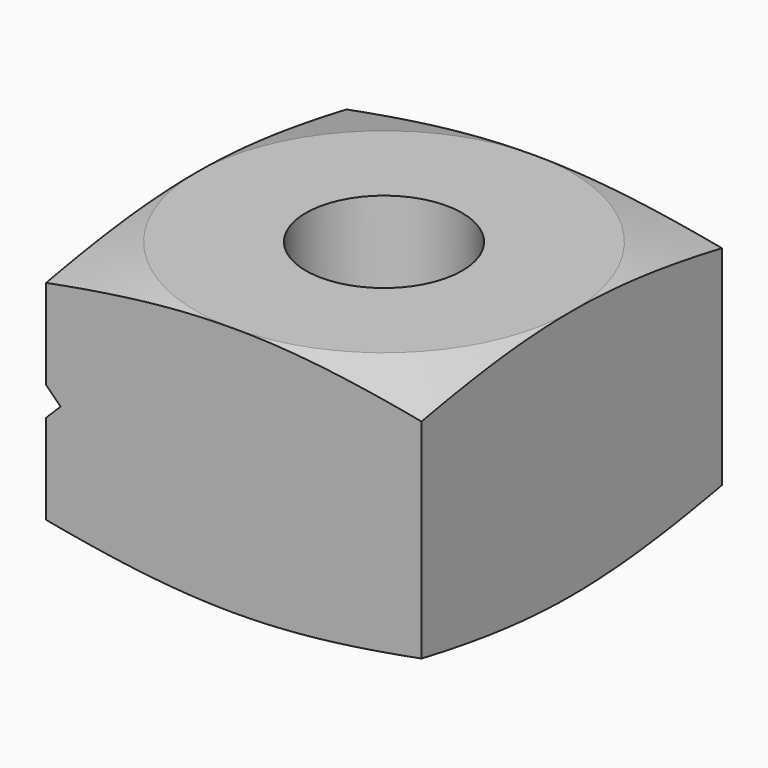
from build123d import *

# Parameters (mm, degrees)
F0_W      = 19.05
F0_H      = 19.05
F1_DEPTH  = 12.7
F2_R      = 3.96875
F3_DEPTH  = 12.701
F10_DEPTH = 12.7


with BuildPart() as f1:
    # F0 (on Top) → F1 (new body)
    with BuildSketch(Plane.XY):
        Rectangle(F0_W, F0_H)
    extrude(amount=F1_DEPTH)

    # F2 (on face) → F3 (cut, through all)
    with BuildSketch(Plane.XY.offset(12.7)):
        Circle(F2_R)
    extrude(amount=-F3_DEPTH, mode=Mode.SUBTRACT)

    # F4 (on Right) → F5 (revolve, cut)
    with BuildSketch(Plane.YZ):
        Polygon((24.765, 12.7), (9.525, 12.7), (24.765, 8.6164543073), align=None)
    revolve(axis=Axis((0, 0, 12.7), (0, 0, 1)), mode=Mode.SUBTRACT)

    # F7 (on Right) → F8 (revolve, cut)
    with BuildSketch(Plane.YZ):
        Polygon((-22.8305501432, 0), (-9.525, 0), (-22.8305501432, 3.5652114157), align=None)
    revolve(axis=Axis((0, 0, 0), (0, 0, -1)), mode=Mode.SUBTRACT)

    # F9 (on Front) → F10 (cut, symmetric)
    with BuildSketch(Plane.XZ):
        Polygon((-8.7912914261, 6.35), (-9.525, 6.35), (-9.525, 5.6162914261), align=None)
        Polygon((-8.7912914261, 6.35), (-9.525, 7.0837085739), (-9.525, 6.35), align=None)
    extrude(amount=F10_DEPTH, both=True, mode=Mode.SUBTRACT)


solid = f1.part
